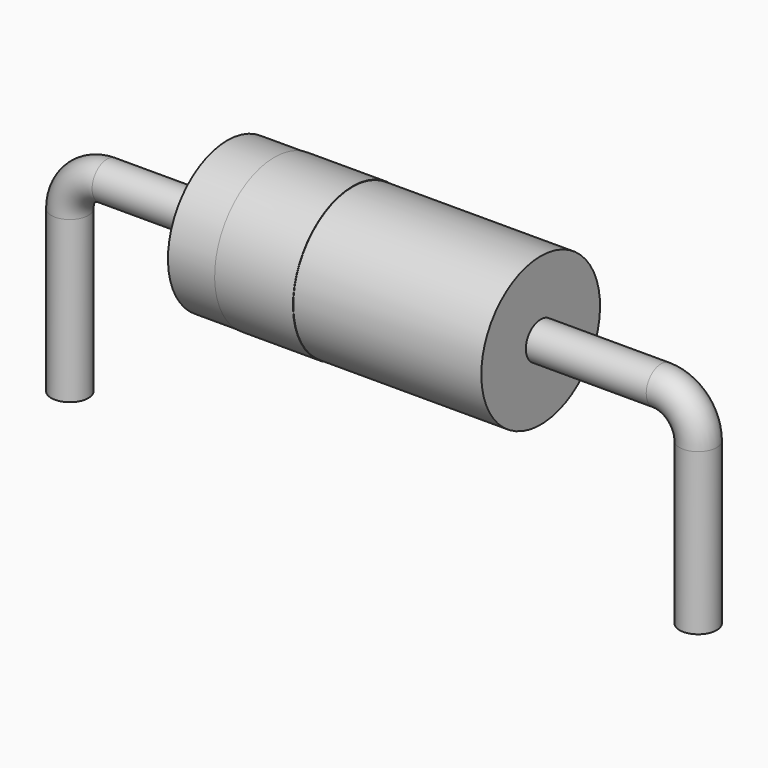
from build123d import *

# Parameters (mm, degrees)
SKETCH002_W = 7.6
SKETCH002_H = 1.8
SKETCH003_W = 1.9
SKETCH003_H = 0.02
SKETCH_R    = 0.45


with BuildPart() as revolution:
    # Sketch002 → Revolution (revolve)
    with BuildSketch(Plane.XZ):
        with Locations((7.62, 3.2)):
            Rectangle(SKETCH002_W, SKETCH002_H)
    revolve(axis=Axis((3.82, 0, 2.3), (1, 0, 0)))


with BuildPart() as revolution001:
    # Sketch003 → Revolution001 (revolve)
    with BuildSketch(Plane.XZ):
        with Locations((5.91, 4.1)):
            Rectangle(SKETCH003_W, SKETCH003_H)
    revolve(axis=Axis((0, 0, 2.3), (1, 0, 0)))


with BuildPart() as sweep_body:
    # Sweep: sweep along a path in Sketch001
    with BuildLine(Plane.XZ) as sweep_path:
        Line((0, -2.5), (0, 1.4))
        ThreePointArc((0, 1.4), (0.263604, 2.036396), (0.9, 2.3))
        Line((0.9, 2.3), (14.34, 2.3))
        ThreePointArc((14.34, 2.3), (14.976396, 2.036396), (15.24, 1.4))
        Line((15.24, 1.4), (15.24, -2.5))
    # Sketch → Sweep (sweep)
    with BuildSketch(Plane.XY.offset(-2)):
        Circle(SKETCH_R)
    sweep(path=sweep_path.line)


solid = Compound([revolution.part, revolution001.part, sweep_body.part])
